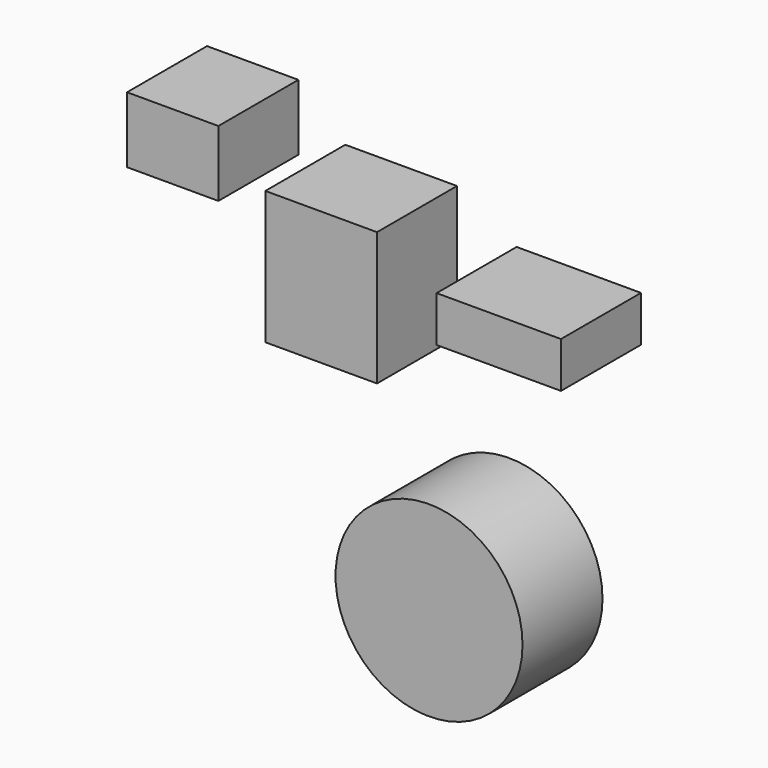
from build123d import *

# Parameters (mm, degrees)
F0_W     = 22.84278
F0_H     = 16.497556
F0_W_2   = 27.918949
F0_H_2   = 33.312377
F0_W_3   = 31.091554
F0_H_3   = 11.421384
F0_R     = 23.376327
F1_DEPTH = 25


with BuildPart() as f1:
    # F0 (on Front) → F1 (new body)
    with BuildSketch(Plane.XZ):
        with Locations((-107.234135, 49.016787)):
            Rectangle(F0_W, F0_H)
        with Locations((-70.114627, 30.139772)):
            Rectangle(F0_W_2, F0_H_2)
        with Locations((-25.698123, 32.519228)):
            Rectangle(F0_W_3, F0_H_3)
        with Locations((-43.147463, -32.201964)):
            Circle(F0_R)
    extrude(amount=F1_DEPTH)


solid = f1.part
